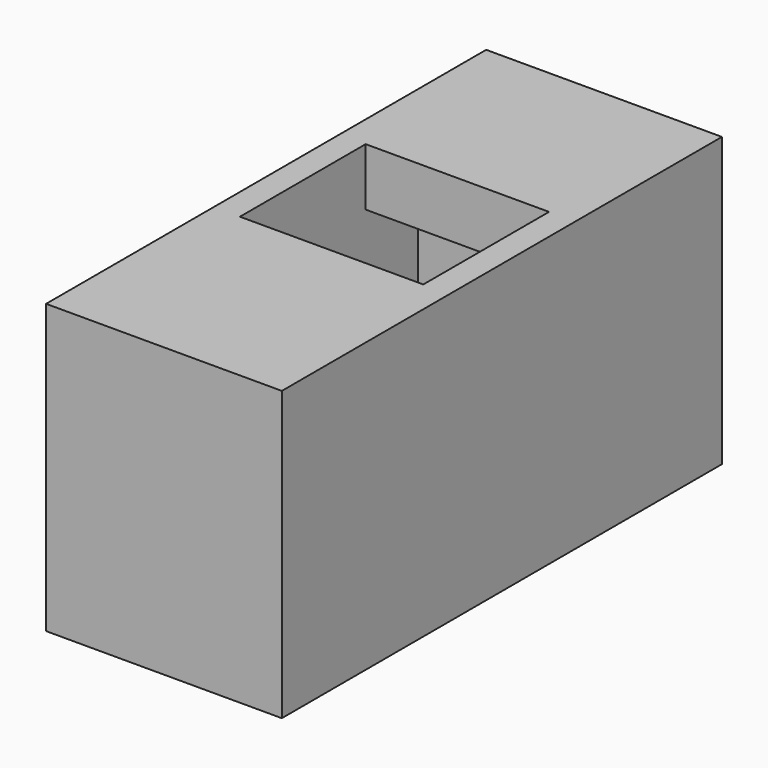
from build123d import *

# Parameters (mm, degrees)
BOX049_W                     = 6
BOX049_H                     = 7
BOX049_DEPTH                 = 8
BOX048_W                     = 7
BOX048_H                     = 12
BOX048_DEPTH                 = 10
CHAMFER001_SIZE              = 1
CHAMFER001_PLACEMENT_ANGLE   = 90
FUSION002028_PLACEMENT_ANGLE = 90
BOX047_W                     = 9
BOX047_H                     = 21
BOX047_DEPTH                 = 11


with BuildPart() as cubo049:
    # Box049 → Box049 (new body)
    with BuildSketch(Plane(origin=(-9.5, -15, 2.5), x_dir=(1, 0, 0), z_dir=(0, 0, 1))):
        with Locations((3, 3.5)):
            Rectangle(BOX049_W, BOX049_H)
    extrude(amount=BOX049_DEPTH)


with BuildPart() as fusion002028:
    # Box048 → Box048 (new body)
    with BuildSketch(Plane(origin=(-13, -7, 7.5), x_dir=(1, 0, 0), z_dir=(0, 0, -1))):
        with Locations((3.5, 6)):
            Rectangle(BOX048_W, BOX048_H)
    extrude(amount=BOX048_DEPTH)

    # Chamfer001
    chamfer001_edges = [fusion002028.edges().sort_by_distance(p)[0] for p in [
        (-13, -13, -2.5),
    ]]
    chamfer(chamfer001_edges, length=CHAMFER001_SIZE)


with BuildPart() as fusion002028_1:
    # Chamfer001 placement: moved
    add(fusion002028.part.moved(Location((-20, -2, 0.5))).rotate(Axis((-20, -2, 0.5), (0, 0, 1)), CHAMFER001_PLACEMENT_ANGLE))

    # Fusion002028: union Cubo049
    add(cubo049.part)


with BuildPart() as fusion002028_2:
    # Fusion002028 placement: moved
    add(fusion002028_1.part.moved(Location((-44, 66.5, 34.8))).rotate(Axis((-44, 66.5, 34.8), (0, 0, 1)), FUSION002028_PLACEMENT_ANGLE))


with BuildPart() as cut072:
    # Box047 → Box047 (new body)
    with BuildSketch(Plane(origin=(-37, 49, 34), x_dir=(1, 0, 0), z_dir=(0, 0, 1))):
        with Locations((4.5, 10.5)):
            Rectangle(BOX047_W, BOX047_H)
    extrude(amount=BOX047_DEPTH)

    # Cut072: cut Fusion002028
    add(fusion002028_2.part, mode=Mode.SUBTRACT)


solid = cut072.part
